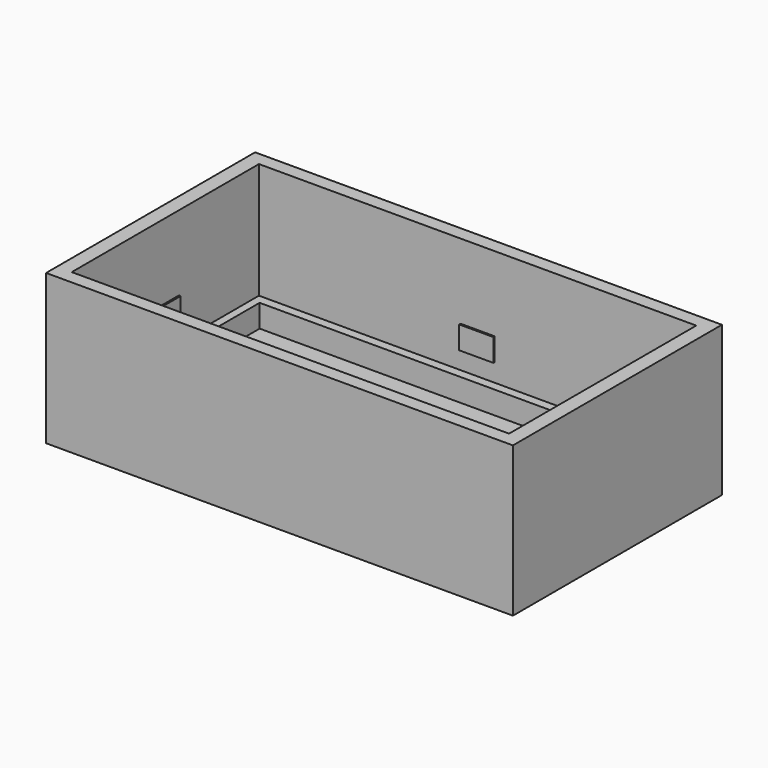
from build123d import *

# Parameters (mm, degrees)
SKETCH001_W     = 41.1
SKETCH001_H     = 23
PAD_DEPTH       = 13.2
SKETCH002_W     = 38.5
SKETCH002_H     = 20.6
POCKET_DEPTH    = 10.201
SKETCH_W        = 37.1
SKETCH_H        = 19
POCKET001_DEPTH = 2
SKETCH007_W     = 0.15
SKETCH007_H     = 3
SKETCH007_W_2   = 3
SKETCH007_H_2   = 0.15
PAD003_DEPTH    = 2


with BuildPart() as part:
    # Sketch001 (on DatumPlane) → Pad (new body)
    with BuildSketch(Plane.XY.offset(-3)):
        Rectangle(SKETCH001_W, SKETCH001_H)
    extrude(amount=PAD_DEPTH)

    # Sketch002 → Pocket (cut, through all)
    with BuildSketch(Plane.XY):
        Rectangle(SKETCH002_W, SKETCH002_H)
    extrude(amount=POCKET_DEPTH, mode=Mode.SUBTRACT)

    # Sketch → Pocket001 (cut)
    with BuildSketch(Plane.XY):
        Rectangle(SKETCH_W, SKETCH_H)
    extrude(amount=-POCKET001_DEPTH, mode=Mode.SUBTRACT)

    # Sketch007 (on DatumPlane) → Pad003 (join)
    with BuildSketch(Plane.XY.offset(1.6)):
        with Locations((-19.175, 0)):
            Rectangle(SKETCH007_W, SKETCH007_H)
        with Locations((0, 10.225)):
            Rectangle(SKETCH007_W_2, SKETCH007_H_2)
        with Locations((0, -10.225)):
            Rectangle(SKETCH007_W_2, SKETCH007_H_2)
        with Locations((19.175, 0)):
            Rectangle(SKETCH007_W, SKETCH007_H)
    extrude(amount=PAD003_DEPTH)


solid = part.part
